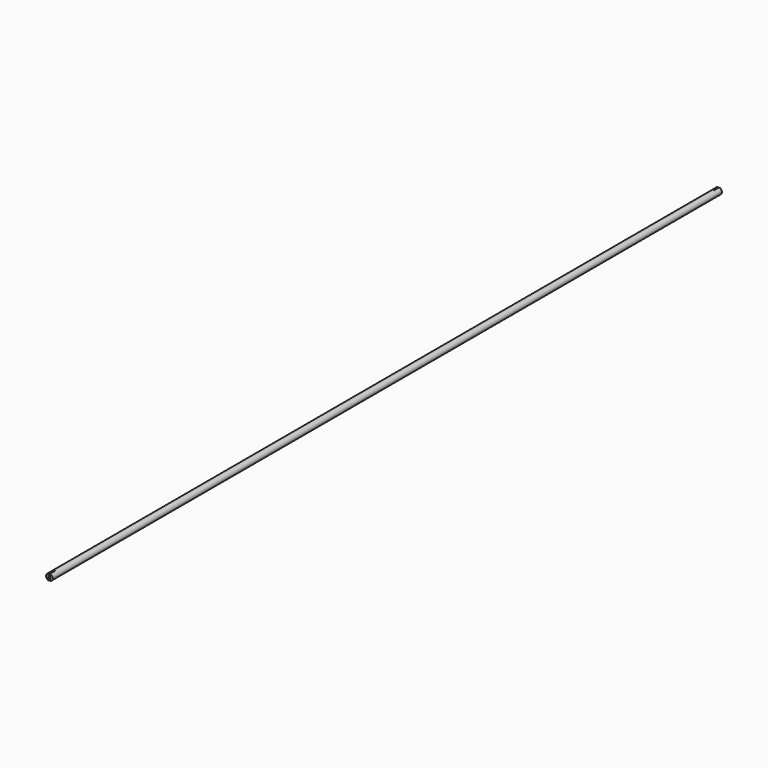
from build123d import *

# Parameters (mm, degrees)
F0_R     = 30
F1_DEPTH = 3871.93
F3_DEPTH = 60
F5_DEPTH = 60


with BuildPart() as f1:
    # F0 (on Front) → F1 (new body, symmetric)
    with BuildSketch(Plane.XZ):
        Circle(F0_R)
    extrude(amount=F1_DEPTH, both=True)

    # F2 (on face) → F3 (cut)
    with BuildSketch(Plane.XZ.offset(3871.93)):
        with BuildLine():
            Line((6, 29.3938769134), (6, 92.5506760976))
            Line((6, 92.5506760976), (-6, 92.5506760976))
            Line((-6, 92.5506760976), (-6, 29.3938769134))
            ThreePointArc((-6, 29.3938769134), (0, 30), (6, 29.3938769134))
        make_face()
        with BuildLine():
            Line((6, -29.3938769134), (6, 29.3938769134))
            ThreePointArc((6, 29.3938769134), (0, 30), (-6, 29.3938769134))
            Line((-6, 29.3938769134), (-6, -29.3938769134))
            ThreePointArc((-6, -29.3938769134), (0, -30), (6, -29.3938769134))
        make_face()
    extrude(amount=-F3_DEPTH, mode=Mode.SUBTRACT)

    # F4 (on face) → F5 (cut)
    with BuildSketch(Plane(origin=(0, 3871.93, 0), x_dir=(-1, 0, 0), z_dir=(0, 1, 0))):
        with BuildLine():
            Line((5, -29.5803989155), (5, 29.5803989155))
            ThreePointArc((5, 29.5803989155), (0, 30), (-5, 29.5803989155))
            Line((-5, 29.5803989155), (-5, -29.5803989155))
            ThreePointArc((-5, -29.5803989155), (0, -30), (5, -29.5803989155))
        make_face()
    extrude(amount=-F5_DEPTH, mode=Mode.SUBTRACT)


solid = f1.part
